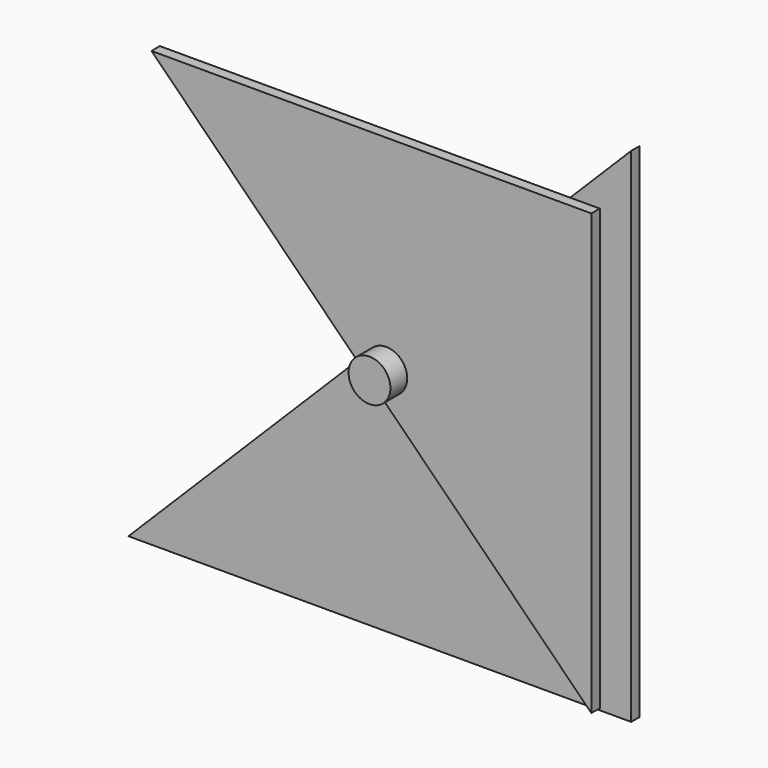
from build123d import *

# Parameters (mm, degrees)
F0_R     = 1.5875
F1_DEPTH = 3.175
F4_ANGLE = 90
F6_R     = 6.35
F7_DEPTH = 6.35
F9_DEPTH = 3.175


with BuildPart() as f1:
    # F0 (on Front) → F1 (new body)
    with BuildSketch(Plane.XZ):
        Polygon((76.2, 76.2), (-76.2, -76.2), (76.2, -76.2), align=None)
        with Locations((4.4901280605, -4.4901280605)):
            Circle(F0_R, mode=Mode.SUBTRACT)
    extrude(amount=F1_DEPTH)


with BuildPart() as f4_1:
    # F4: copy of F1
    add(f1.part.rotate(Axis((4.4901280605, -59.5605373383, -4.4901280605), (0, -1, 0)), F4_ANGLE))


with BuildPart() as f4_1_1:
    # F5: moved
    add(f4_1.part.moved(Location((0, -3.175, 0))))

    # F8 (on face) → F9 (cut)
    with BuildSketch(Plane.XZ.offset(6.35)):
        Polygon((66.675, 57.6947438789), (66.675, -75.6552561211), (76.2, -85.1802561211), (76.2, 67.2197438789), (-76.2, 67.2197438789), (-66.675, 57.6947438789), align=None)
    extrude(amount=-F9_DEPTH, mode=Mode.SUBTRACT)


with BuildPart() as f7:
    # F6 (on face) → F7 (new body)
    with BuildSketch(Plane.XZ.offset(6.35)):
        with Locations((4.4901280605, -4.4901280605)):
            Circle(F6_R)
    extrude(amount=F7_DEPTH)


solid = Compound([f1.part, f4_1_1.part, f7.part])
